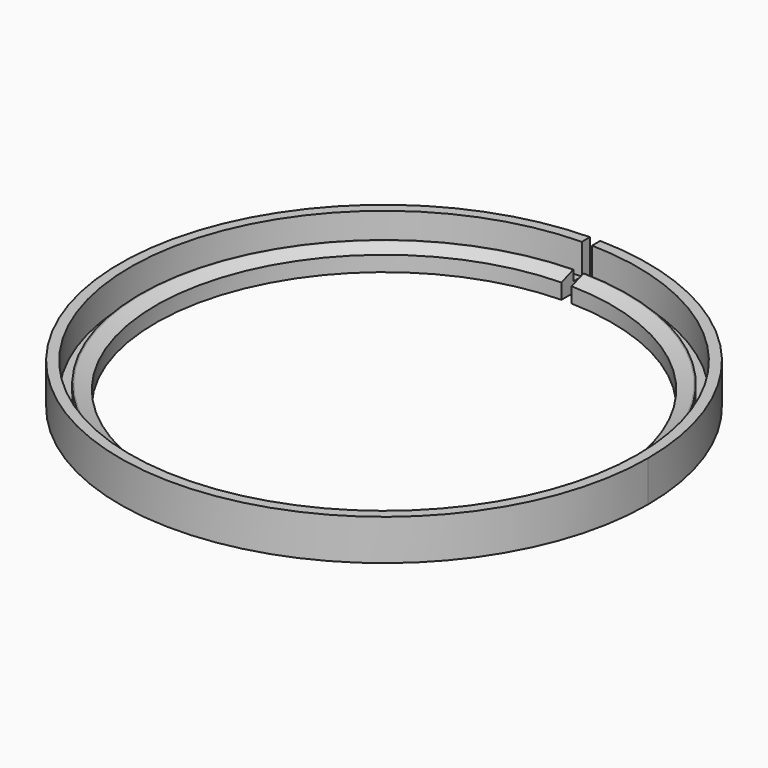
from build123d import *

# Parameters (mm, degrees)
F0_R     = 25.9
F0_R_2   = 22.4
F1_DEPTH = 2
F2_R     = 25.9
F2_R_2   = 24.9
F3_DEPTH = 2
F4_W     = 1
F4_H     = 10
F5_DEPTH = 25
F6_R     = 24.9
F6_R_2   = 23.9
F7_DEPTH = 1
F8_SIZE2 = 1.373739
F8_SIZE  = 0.5


with BuildPart() as f1:
    # F0 (on Top) → F1 (new body)
    with BuildSketch(Plane.XY):
        Circle(F0_R)
        Circle(F0_R_2, mode=Mode.SUBTRACT)
    extrude(amount=F1_DEPTH)

    # F2 (on face) → F3 (join)
    with BuildSketch(Plane.XY.offset(2)):
        Circle(F2_R)
        Circle(F2_R_2, mode=Mode.SUBTRACT)
    extrude(amount=F3_DEPTH)

    # F4 (on face) → F5 (cut)
    with BuildSketch(Plane(origin=(0, 0, 0), x_dir=(1, 0, 0), z_dir=(0, 0, -1))):
        with Locations((0, -25)):
            Rectangle(F4_W, F4_H)
    extrude(amount=-F5_DEPTH, mode=Mode.SUBTRACT)

    # F6 (on face) → F7 (cut)
    with BuildSketch(Plane.XY.offset(2)):
        Circle(F6_R)
        Circle(F6_R_2, mode=Mode.SUBTRACT)
    extrude(amount=-F7_DEPTH, mode=Mode.SUBTRACT)

    # F8
    f8_edges = [f1.edges().sort_by_distance(p)[0] for p in [
        (-15.661418, -16.014993, 2),
    ]]
    chamfer(f8_edges, length=F8_SIZE, length2=F8_SIZE2)


solid = f1.part
